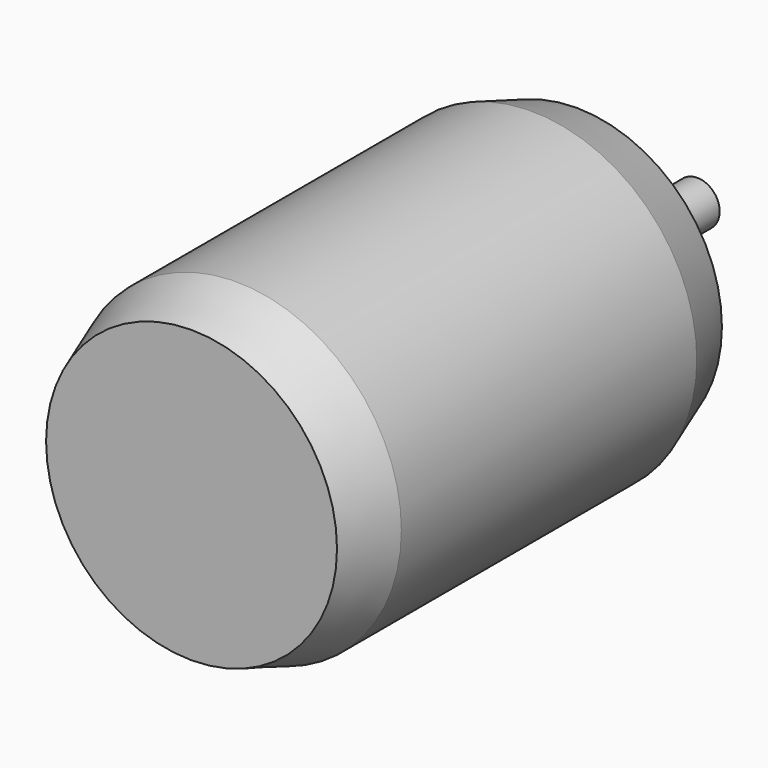
from build123d import *

# Parameters (mm, degrees)
F0_R     = 29.5
F0_R_2   = 2
F0_R_3   = 4
F1_DEPTH = 86
F2_DEPTH = 27
F3_DEPTH = 10
F4_SIZE2 = 3.5
F4_SIZE  = 10
F5_SIZE2 = 10
F5_SIZE  = 3.5


with BuildPart() as f1:
    # F0 (on Front) → F1 (new body)
    with BuildSketch(Plane.XZ):
        Circle(F0_R)
        with Locations((-15.5563491861, -15.5563491861)):
            Circle(F0_R_2, mode=Mode.SUBTRACT)
        with Locations((15.5563491861, -15.5563491861)):
            Circle(F0_R_2, mode=Mode.SUBTRACT)
        with Locations((-15.5563491861, 15.5563491861)):
            Circle(F0_R_2, mode=Mode.SUBTRACT)
        Circle(F0_R_3, mode=Mode.SUBTRACT)
        with Locations((15.5563491861, 15.5563491861)):
            Circle(F0_R_2, mode=Mode.SUBTRACT)
        Circle(F0_R_3)
        with Locations((15.5563491861, 15.5563491861)):
            Circle(F0_R_2)
        with Locations((-15.5563491861, 15.5563491861)):
            Circle(F0_R_2)
        with Locations((-15.5563491861, -15.5563491861)):
            Circle(F0_R_2)
        with Locations((15.5563491861, -15.5563491861)):
            Circle(F0_R_2)
    extrude(amount=F1_DEPTH)

    # F0 (on Front) → F2 (join)
    with BuildSketch(Plane.XZ):
        Circle(F0_R_3)
    extrude(amount=-F2_DEPTH)

    # F0 (on Front) → F3 (cut)
    with BuildSketch(Plane.XZ):
        with Locations((15.5563491861, 15.5563491861)):
            Circle(F0_R_2)
        with Locations((-15.5563491861, 15.5563491861)):
            Circle(F0_R_2)
        with Locations((15.5563491861, -15.5563491861)):
            Circle(F0_R_2)
        with Locations((-15.5563491861, -15.5563491861)):
            Circle(F0_R_2)
    extrude(amount=F3_DEPTH, mode=Mode.SUBTRACT)

    # F4
    f4_edges = [f1.edges().sort_by_distance(p)[0] for p in [
        (-29.5, 0, 0),
    ]]
    f4_side = f1.faces().sort_by_distance((-29.5, -43, 0))[0]
    chamfer(f4_edges, length=F4_SIZE, length2=F4_SIZE2, reference=f4_side)

    # F5
    f5_edges = [f1.edges().sort_by_distance(p)[0] for p in [
        (-29.5, -86, 0),
    ]]
    f5_side = f1.faces().sort_by_distance((0, -86, 0))[0]
    chamfer(f5_edges, length=F5_SIZE, length2=F5_SIZE2, reference=f5_side)


solid = f1.part
